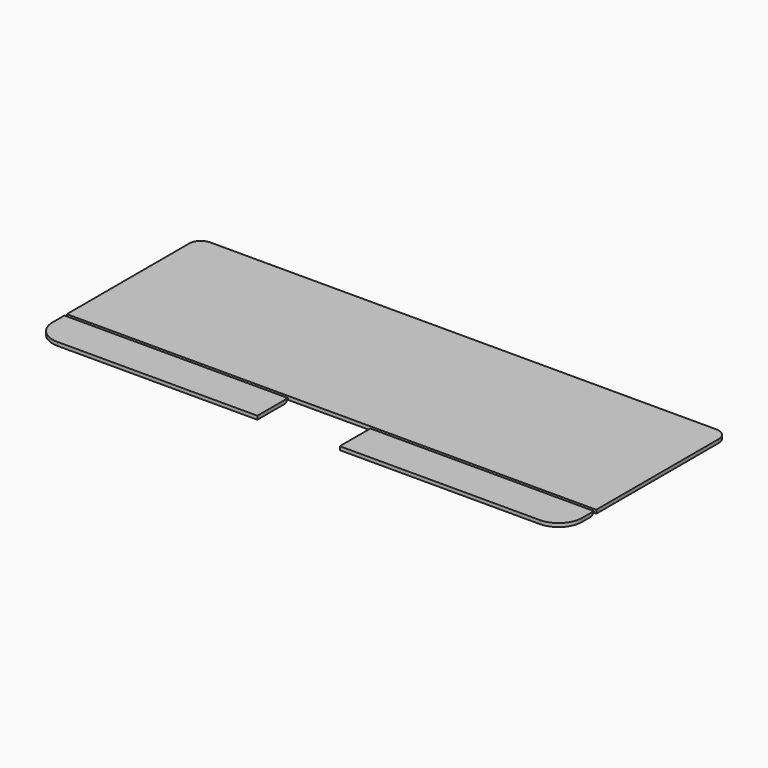
from build123d import *

# Parameters (mm, degrees)
F1_DEPTH = 6
F2_SIZE  = 5
F3_SIZE  = 5


with BuildPart() as f1:
    # F0 (on Top) → F1 (new body)
    with BuildSketch(Plane.XY):
        with BuildLine():
            Line((94.523475, 325.756645), (-335.476525, 325.756645))
            ThreePointArc((-335.476525, 325.756645), (-349.618661, 319.898781), (-355.476525, 305.756645))
            Line((-355.476525, 305.756645), (-355.476525, 45.756645))
            Line((-355.476525, 45.756645), (-300.793154, 45.756645))
            Line((-300.793154, 45.756645), (94.523475, 45.756645))
            Line((94.523475, 45.756645), (94.523475, 325.756645))
        make_face()
        with BuildLine():
            Line((544.523475, 40.756645), (164.523475, 40.756645))
            Line((164.523475, 40.756645), (164.523475, -24.243355))
            Line((164.523475, -24.243355), (504.523475, -24.243355))
            ThreePointArc((504.523475, -24.243355), (532.807746, -12.527626), (544.523475, 15.756645))
            Line((544.523475, 15.756645), (544.523475, 40.756645))
        make_face()
        with BuildLine():
            Line((24.523475, -24.243355), (24.523475, 40.756645))
            Line((24.523475, 40.756645), (-355.476525, 40.756645))
            Line((-355.476525, 40.756645), (-355.476525, 15.756645))
            ThreePointArc((-355.476525, 15.756645), (-343.760797, -12.527626), (-315.476525, -24.243355))
            Line((-315.476525, -24.243355), (24.523475, -24.243355))
        make_face()
        with BuildLine():
            Line((524.523475, 325.756645), (94.523475, 325.756645))
            Line((94.523475, 325.756645), (94.523475, 45.756645))
            Line((94.523475, 45.756645), (544.523475, 45.756645))
            Line((544.523475, 45.756645), (544.523475, 305.756645))
            ThreePointArc((544.523475, 305.756645), (538.66561, 319.898781), (524.523475, 325.756645))
        make_face()
    extrude(amount=F1_DEPTH)

    # F2
    f2_edges = [f1.edges().sort_by_distance(p)[0] for p in [
        (-165.476525, 40.756645, 0),
    ]]
    chamfer(f2_edges, length=F2_SIZE)

    # F3
    f3_edges = [f1.edges().sort_by_distance(p)[0] for p in [
        (354.523475, 40.756645, 0),
    ]]
    chamfer(f3_edges, length=F3_SIZE)


solid = f1.part
